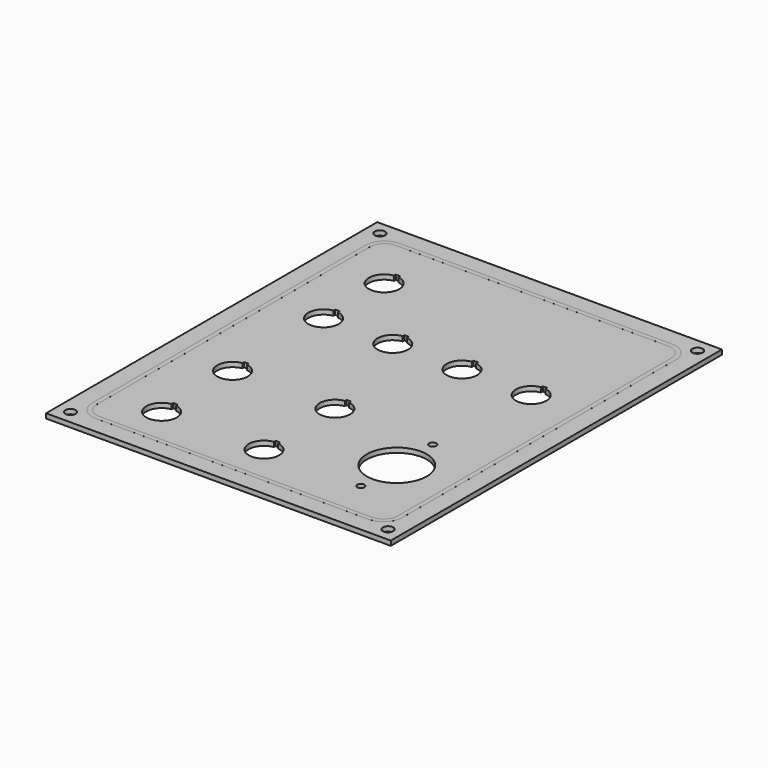
from build123d import *

# Parameters (mm, degrees)
F0_W      = 254
F0_H      = 305
F1_DEPTH  = 3.45
F2_DEPTH  = 0.01
F3_R      = 3.85
F4_DEPTH  = 3.451
F6_DEPTH  = 25
F8_DEPTH  = 25
F10_DEPTH = 25
F11_R     = 2.65
F11_R_2   = 22.125
F12_DEPTH = 25


with BuildPart() as f1:
    # F0 (on Top) → F1 (new body)
    with BuildSketch(Plane.XY):
        with Locations((127, 152.5)):
            Rectangle(F0_W, F0_H)
        with BuildLine():
            ThreePointArc((12.7, 278.3), (16.800505, 288.199495), (26.7, 292.3))
            Line((26.7, 292.3), (227.3, 292.3))
            ThreePointArc((227.3, 292.3), (237.199495, 288.199495), (241.3, 278.3))
            Line((241.3, 278.3), (241.3, 26.7))
            ThreePointArc((241.3, 26.7), (237.199495, 16.800505), (227.3, 12.7))
            Line((227.3, 12.7), (26.7, 12.7))
            ThreePointArc((26.7, 12.7), (16.800505, 16.800505), (12.7, 26.7))
            Line((12.7, 26.7), (12.7, 278.3))
        make_face(mode=Mode.SUBTRACT)
        with BuildLine():
            Line((227.3, 292.3), (26.7, 292.3))
            ThreePointArc((26.7, 292.3), (16.800505, 288.199495), (12.7, 278.3))
            Line((12.7, 278.3), (12.7, 26.7))
            ThreePointArc((12.7, 26.7), (16.800505, 16.800505), (26.7, 12.7))
            Line((26.7, 12.7), (227.3, 12.7))
            ThreePointArc((227.3, 12.7), (237.199495, 16.800505), (241.3, 26.7))
            Line((241.3, 26.7), (241.3, 278.3))
            ThreePointArc((241.3, 278.3), (237.199495, 288.199495), (227.3, 292.3))
        make_face()
        with BuildLine():
            Line((227.3, 16), (26.7, 16))
            ThreePointArc((26.7, 16), (19.133957, 19.133957), (16, 26.7))
            Line((16, 26.7), (16, 278.3))
            ThreePointArc((16, 278.3), (19.133957, 285.866043), (26.7, 289))
            Line((26.7, 289), (227.3, 289))
            ThreePointArc((227.3, 289), (234.866043, 285.866043), (238, 278.3))
            Line((238, 278.3), (238, 26.7))
            ThreePointArc((238, 26.7), (234.866043, 19.133957), (227.3, 16))
        make_face(mode=Mode.SUBTRACT)
        with BuildLine():
            ThreePointArc((16, 26.7), (19.133957, 19.133957), (26.7, 16))
            Line((26.7, 16), (227.3, 16))
            ThreePointArc((227.3, 16), (234.866043, 19.133957), (238, 26.7))
            Line((238, 26.7), (238, 278.3))
            ThreePointArc((238, 278.3), (234.866043, 285.866043), (227.3, 289))
            Line((227.3, 289), (26.7, 289))
            ThreePointArc((26.7, 289), (19.133957, 285.866043), (16, 278.3))
            Line((16, 278.3), (16, 26.7))
        make_face()
    extrude(amount=-F1_DEPTH)

    # F3 (on face) → F4 (cut, through all)
    with BuildSketch(Plane.XY):
        with Locations((244, 10)):
            Circle(F3_R)
        with Locations((10, 10)):
            Circle(F3_R)
        with Locations((244, 295)):
            Circle(F3_R)
        with Locations((10, 295)):
            Circle(F3_R)
    extrude(amount=-F4_DEPTH, mode=Mode.SUBTRACT)

    # F5 (on face) → F6 (cut)
    with BuildSketch(Plane.XY):
        with BuildLine():
            ThreePointArc((49.2, 258.985641), (50.8, 259.1), (52.4, 258.985641))
            Line((52.4, 258.985641), (52.4, 260.6))
            Line((52.4, 260.6), (49.2, 260.6))
            Line((49.2, 260.6), (49.2, 258.985641))
        make_face()
        with BuildLine():
            Line((52.4, 257.6), (52.4, 258.985641))
            ThreePointArc((52.4, 258.985641), (50.8, 259.1), (49.2, 258.985641))
            Line((49.2, 258.985641), (49.2, 257.6))
            Line((49.2, 257.6), (52.4, 257.6))
        make_face()
        with BuildLine():
            ThreePointArc((49.2, 258.985641), (43.432419, 239.348162), (62.05, 247.85))
            ThreePointArc((62.05, 247.85), (59.301838, 255.217581), (52.4, 258.985641))
            Line((52.4, 258.985641), (52.4, 257.6))
            Line((52.4, 257.6), (49.2, 257.6))
            Line((49.2, 257.6), (49.2, 258.985641))
        make_face()
    extrude(amount=-F6_DEPTH, mode=Mode.SUBTRACT)

    # F7 (on face) → F8 (cut)
    with BuildSketch(Plane.XY):
        with BuildLine():
            Line((52.4, 201.8), (52.4, 203.185641))
            ThreePointArc((52.4, 203.185641), (50.8, 203.3), (49.2, 203.185641))
            Line((49.2, 203.185641), (49.2, 201.8))
            Line((49.2, 201.8), (52.4, 201.8))
        make_face()
        with BuildLine():
            ThreePointArc((49.2, 203.185641), (50.8, 203.3), (52.4, 203.185641))
            Line((52.4, 203.185641), (52.4, 204.8))
            Line((52.4, 204.8), (49.2, 204.8))
            Line((49.2, 204.8), (49.2, 203.185641))
        make_face()
        with BuildLine():
            ThreePointArc((100.2, 203.185641), (101.8, 203.3), (103.4, 203.185641))
            Line((103.4, 203.185641), (103.4, 204.8))
            Line((103.4, 204.8), (100.2, 204.8))
            Line((100.2, 204.8), (100.2, 203.185641))
        make_face()
        with BuildLine():
            Line((103.4, 201.8), (103.4, 203.185641))
            ThreePointArc((103.4, 203.185641), (101.8, 203.3), (100.2, 203.185641))
            Line((100.2, 203.185641), (100.2, 201.8))
            Line((100.2, 201.8), (103.4, 201.8))
        make_face()
        with BuildLine():
            ThreePointArc((100.2, 203.185641), (94.432419, 183.548162), (113.05, 192.05))
            ThreePointArc((113.05, 192.05), (110.301838, 199.417581), (103.4, 203.185641))
            Line((103.4, 203.185641), (103.4, 201.8))
            Line((103.4, 201.8), (100.2, 201.8))
            Line((100.2, 201.8), (100.2, 203.185641))
        make_face()
        with BuildLine():
            ThreePointArc((49.2, 203.185641), (43.432419, 183.548162), (62.05, 192.05))
            ThreePointArc((62.05, 192.05), (59.301838, 199.417581), (52.4, 203.185641))
            Line((52.4, 203.185641), (52.4, 201.8))
            Line((52.4, 201.8), (49.2, 201.8))
            Line((49.2, 201.8), (49.2, 203.185641))
        make_face()
        with BuildLine():
            ThreePointArc((151.2, 203.185641), (152.8, 203.3), (154.4, 203.185641))
            Line((154.4, 203.185641), (154.4, 204.8))
            Line((154.4, 204.8), (151.2, 204.8))
            Line((151.2, 204.8), (151.2, 203.185641))
        make_face()
        with BuildLine():
            Line((154.4, 201.8), (154.4, 203.185641))
            ThreePointArc((154.4, 203.185641), (152.8, 203.3), (151.2, 203.185641))
            Line((151.2, 203.185641), (151.2, 201.8))
            Line((151.2, 201.8), (154.4, 201.8))
        make_face()
        with BuildLine():
            ThreePointArc((151.2, 203.185641), (145.432419, 183.548162), (164.05, 192.05))
            ThreePointArc((164.05, 192.05), (161.301838, 199.417581), (154.4, 203.185641))
            Line((154.4, 203.185641), (154.4, 201.8))
            Line((154.4, 201.8), (151.2, 201.8))
            Line((151.2, 201.8), (151.2, 203.185641))
        make_face()
        with BuildLine():
            ThreePointArc((202.2, 203.185641), (203.8, 203.3), (205.4, 203.185641))
            Line((205.4, 203.185641), (205.4, 204.8))
            Line((205.4, 204.8), (202.2, 204.8))
            Line((202.2, 204.8), (202.2, 203.185641))
        make_face()
        with BuildLine():
            Line((205.4, 201.8), (205.4, 203.185641))
            ThreePointArc((205.4, 203.185641), (203.8, 203.3), (202.2, 203.185641))
            Line((202.2, 203.185641), (202.2, 201.8))
            Line((202.2, 201.8), (205.4, 201.8))
        make_face()
        with BuildLine():
            ThreePointArc((202.2, 203.185641), (196.432419, 183.548162), (215.05, 192.05))
            ThreePointArc((215.05, 192.05), (212.301838, 199.417581), (205.4, 203.185641))
            Line((205.4, 203.185641), (205.4, 201.8))
            Line((205.4, 201.8), (202.2, 201.8))
            Line((202.2, 201.8), (202.2, 203.185641))
        make_face()
    extrude(amount=-F8_DEPTH, mode=Mode.SUBTRACT)

    # F9 (on face) → F10 (cut)
    with BuildSketch(Plane.XY):
        with BuildLine():
            ThreePointArc((49.2, 119.385641), (50.8, 119.5), (52.4, 119.385641))
            Line((52.4, 119.385641), (52.4, 121))
            Line((52.4, 121), (49.2, 121))
            Line((49.2, 121), (49.2, 119.385641))
        make_face()
        with BuildLine():
            Line((52.4, 118), (52.4, 119.385641))
            ThreePointArc((52.4, 119.385641), (50.8, 119.5), (49.2, 119.385641))
            Line((49.2, 119.385641), (49.2, 118))
            Line((49.2, 118), (52.4, 118))
        make_face()
        with BuildLine():
            ThreePointArc((49.2, 119.385641), (43.432419, 99.748162), (62.05, 108.25))
            ThreePointArc((62.05, 108.25), (59.301838, 115.617581), (52.4, 119.385641))
            Line((52.4, 119.385641), (52.4, 118))
            Line((52.4, 118), (49.2, 118))
            Line((49.2, 118), (49.2, 119.385641))
        make_face()
        with BuildLine():
            ThreePointArc((124.6, 119.385641), (126.2, 119.5), (127.8, 119.385641))
            Line((127.8, 119.385641), (127.8, 121))
            Line((127.8, 121), (124.6, 121))
            Line((124.6, 121), (124.6, 119.385641))
        make_face()
        with BuildLine():
            Line((127.8, 118), (127.8, 119.385641))
            ThreePointArc((127.8, 119.385641), (126.2, 119.5), (124.6, 119.385641))
            Line((124.6, 119.385641), (124.6, 118))
            Line((124.6, 118), (127.8, 118))
        make_face()
        with BuildLine():
            ThreePointArc((124.6, 119.385641), (118.832419, 99.748162), (137.45, 108.25))
            ThreePointArc((137.45, 108.25), (134.701838, 115.617581), (127.8, 119.385641))
            Line((127.8, 119.385641), (127.8, 118))
            Line((127.8, 118), (124.6, 118))
            Line((124.6, 118), (124.6, 119.385641))
        make_face()
        with BuildLine():
            ThreePointArc((124.6, 54.085641), (126.2, 54.2), (127.8, 54.085641))
            Line((127.8, 54.085641), (127.8, 55.7))
            Line((127.8, 55.7), (124.6, 55.7))
            Line((124.6, 55.7), (124.6, 54.085641))
        make_face()
        with BuildLine():
            Line((127.8, 52.7), (127.8, 54.085641))
            ThreePointArc((127.8, 54.085641), (126.2, 54.2), (124.6, 54.085641))
            Line((124.6, 54.085641), (124.6, 52.7))
            Line((124.6, 52.7), (127.8, 52.7))
        make_face()
        with BuildLine():
            ThreePointArc((124.6, 54.085641), (118.832419, 34.448162), (137.45, 42.95))
            ThreePointArc((137.45, 42.95), (134.701838, 50.317581), (127.8, 54.085641))
            Line((127.8, 54.085641), (127.8, 52.7))
            Line((127.8, 52.7), (124.6, 52.7))
            Line((124.6, 52.7), (124.6, 54.085641))
        make_face()
        with BuildLine():
            ThreePointArc((49.2, 54.085641), (50.8, 54.2), (52.4, 54.085641))
            Line((52.4, 54.085641), (52.4, 55.7))
            Line((52.4, 55.7), (49.2, 55.7))
            Line((49.2, 55.7), (49.2, 54.085641))
        make_face()
        with BuildLine():
            Line((52.4, 52.7), (52.4, 54.085641))
            ThreePointArc((52.4, 54.085641), (50.8, 54.2), (49.2, 54.085641))
            Line((49.2, 54.085641), (49.2, 52.7))
            Line((49.2, 52.7), (52.4, 52.7))
        make_face()
        with BuildLine():
            ThreePointArc((49.2, 54.085641), (43.432419, 34.448162), (62.05, 42.95))
            ThreePointArc((62.05, 42.95), (59.301838, 50.317581), (52.4, 54.085641))
            Line((52.4, 54.085641), (52.4, 52.7))
            Line((52.4, 52.7), (49.2, 52.7))
            Line((49.2, 52.7), (49.2, 54.085641))
        make_face()
    extrude(amount=-F10_DEPTH, mode=Mode.SUBTRACT)

    # F11 (on face) → F12 (cut)
    with BuildSketch(Plane.XY):
        with Locations((198.109612, 108.5)):
            Circle(F11_R)
        with Locations((198.109612, 42.35)):
            Circle(F11_R)
        with Locations((198.109612, 75.425)):
            Circle(F11_R_2)
    extrude(amount=-F12_DEPTH, mode=Mode.SUBTRACT)


with BuildPart() as f2:
    # F0 (on Top) → F2 (new body)
    with BuildSketch(Plane.XY):
        with BuildLine():
            Line((227.3, 292.3), (26.7, 292.3))
            ThreePointArc((26.7, 292.3), (16.800505, 288.199495), (12.7, 278.3))
            Line((12.7, 278.3), (12.7, 26.7))
            ThreePointArc((12.7, 26.7), (16.800505, 16.800505), (26.7, 12.7))
            Line((26.7, 12.7), (227.3, 12.7))
            ThreePointArc((227.3, 12.7), (237.199495, 16.800505), (241.3, 26.7))
            Line((241.3, 26.7), (241.3, 278.3))
            ThreePointArc((241.3, 278.3), (237.199495, 288.199495), (227.3, 292.3))
        make_face()
        with BuildLine():
            Line((227.3, 16), (26.7, 16))
            ThreePointArc((26.7, 16), (19.133957, 19.133957), (16, 26.7))
            Line((16, 26.7), (16, 278.3))
            ThreePointArc((16, 278.3), (19.133957, 285.866043), (26.7, 289))
            Line((26.7, 289), (227.3, 289))
            ThreePointArc((227.3, 289), (234.866043, 285.866043), (238, 278.3))
            Line((238, 278.3), (238, 26.7))
            ThreePointArc((238, 26.7), (234.866043, 19.133957), (227.3, 16))
        make_face(mode=Mode.SUBTRACT)
    extrude(amount=F2_DEPTH)


solid = Compound([f1.part, f2.part])
